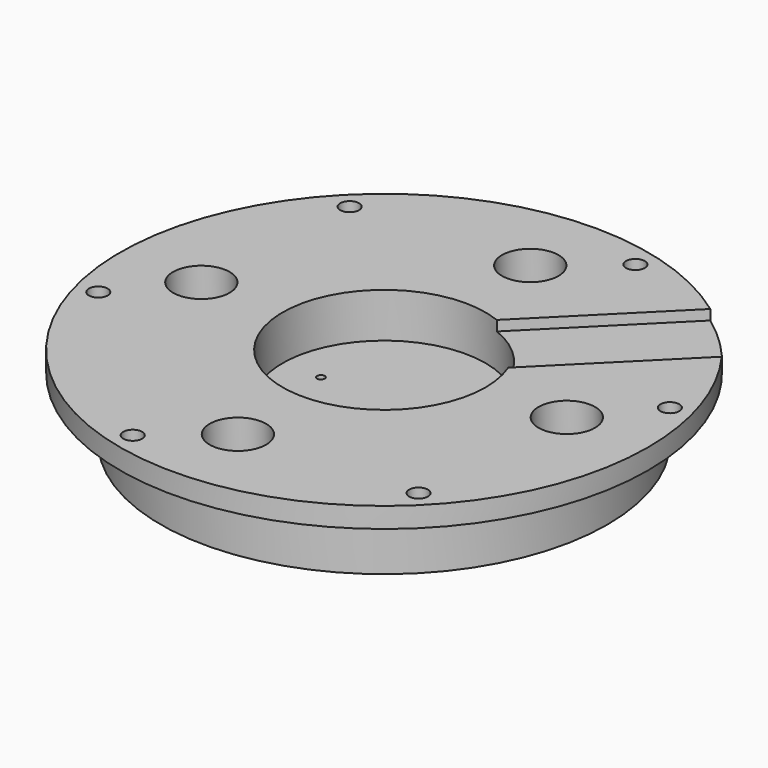
from build123d import *

# Parameters (mm, degrees)
F0_R      = 41.275
F1_DEPTH  = 3.175
F2_R      = 34.925
F3_DEPTH  = 9.525
F4_R      = 2.4892
F5_DEPTH  = 12.7
F6_R      = 4.4196
F7_DEPTH  = 5.08
F8_R      = 1.4732
F9_DEPTH  = 3.175
F10_R     = 15.875
F11_DEPTH = 6.985
F12_R     = 0.59563
F13_DEPTH = 5.716
F15_DEPTH = 1.5875


with BuildPart() as f1:
    # F0 (on Top) → F1 (new body)
    with BuildSketch(Plane.XY):
        Circle(F0_R)
    extrude(amount=F1_DEPTH)

    # F2 (on face) → F3 (join)
    with BuildSketch(Plane(origin=(0, 0, 0), x_dir=(1, 0, 0), z_dir=(0, 0, -1))):
        Circle(F2_R)
    extrude(amount=F3_DEPTH)

    # F4 (on face) → F5 (cut, through all)
    with BuildSketch(Plane.XY.offset(3.175)):
        with Locations((0, 28.575)):
            Circle(F4_R)
        with Locations((-28.575, 0)):
            Circle(F4_R)
        with Locations((0, -28.575)):
            Circle(F4_R)
        with Locations((28.575, 0)):
            Circle(F4_R)
    extrude(amount=-F5_DEPTH, mode=Mode.SUBTRACT)

    # F6 (on face) → F7 (cut)
    with BuildSketch(Plane.XY.offset(3.175)):
        with Locations((0, 28.575)):
            Circle(F6_R)
        with Locations((-28.575, 0)):
            Circle(F6_R)
        with Locations((0, -28.575)):
            Circle(F6_R)
        with Locations((28.575, 0)):
            Circle(F6_R)
    extrude(amount=-F7_DEPTH, mode=Mode.SUBTRACT)

    # F8 (on face) → F9 (cut, through all)
    with BuildSketch(Plane(origin=(0, 0, 0), x_dir=(1, 0, 0), z_dir=(0, 0, -1))):
        with Locations((9.8610056184, -36.8017739816)):
            Circle(F8_R)
        with Locations((36.8017739816, -9.8610056184)):
            Circle(F8_R)
        with Locations((26.9407683632, 26.9407683632)):
            Circle(F8_R)
        with Locations((-9.8610056184, 36.8017739816)):
            Circle(F8_R)
        with Locations((-36.8017739816, 9.8610056184)):
            Circle(F8_R)
        with Locations((-26.9407683632, -26.9407683632)):
            Circle(F8_R)
    extrude(amount=-F9_DEPTH, mode=Mode.SUBTRACT)

    # F10 (on face) → F11 (cut)
    with BuildSketch(Plane.XY.offset(3.175)):
        Circle(F10_R)
    extrude(amount=-F11_DEPTH, mode=Mode.SUBTRACT)

    # F12 (on face) → F13 (cut, through all)
    with BuildSketch(Plane.XY.offset(-3.81)):
        with Locations((-9.8782817332, 0)):
            Circle(F12_R)
        with Locations((0, -9.8782817332)):
            Circle(F12_R)
    extrude(amount=-F13_DEPTH, mode=Mode.SUBTRACT)

    # F14 (on face) → F15 (cut)
    with BuildSketch(Plane.XY.offset(3.175)):
        with BuildLine():
            Line((24.3482415622, 33.3284976833), (5.7980477982, 14.7783039193))
            ThreePointArc((5.7980477982, 14.7783039193), (11.2253201513, 11.2253201513), (14.7783039193, 5.7980477982))
            Line((14.7783039193, 5.7980477982), (33.3284976833, 24.3482415622))
            ThreePointArc((33.3284976833, 24.3482415622), (29.1858323935, 29.1858323935), (24.3482415622, 33.3284976833))
        make_face()
    extrude(amount=-F15_DEPTH, mode=Mode.SUBTRACT)


solid = f1.part
